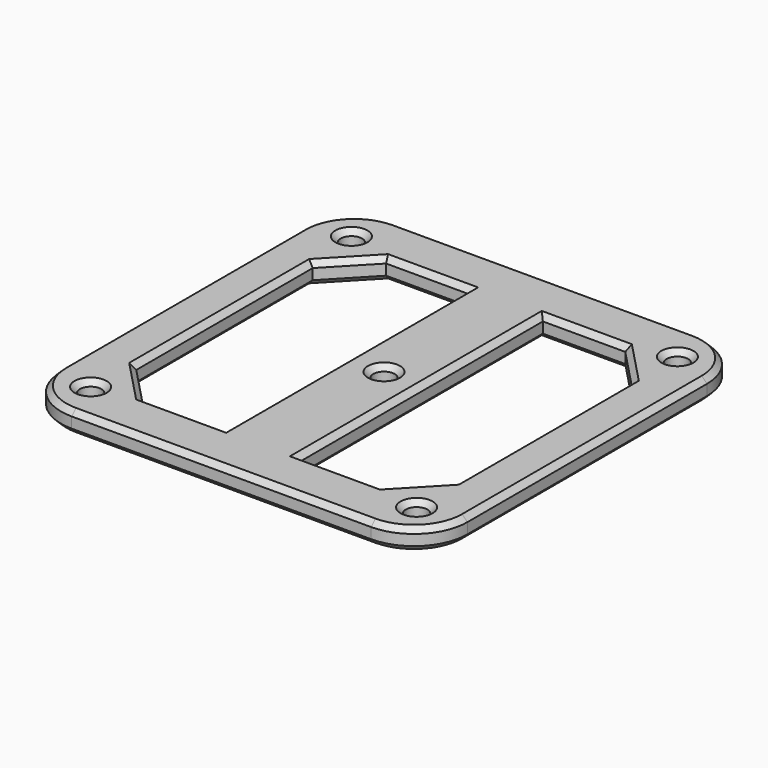
from build123d import *

# Parameters (mm, degrees)
SKETCH001_W  = 76
SKETCH001_H  = 76
SKETCH001_R  = 2
PAD_DEPTH    = 4
POCKET_DEPTH = 5
FILLET_R     = 10
CHAMFER_SIZE = 1


with BuildPart() as part:
    # Sketch001 → Pad (new body)
    with BuildSketch(Plane.XY):
        Rectangle(SKETCH001_W, SKETCH001_H)
        with Locations((-30.479838, 30.479838)):
            Circle(SKETCH001_R, mode=Mode.SUBTRACT)
        with Locations((30.479838, 30.479838)):
            Circle(SKETCH001_R, mode=Mode.SUBTRACT)
        with Locations((30.479838, -30.479838)):
            Circle(SKETCH001_R, mode=Mode.SUBTRACT)
        with Locations((-30.479838, -30.479838)):
            Circle(SKETCH001_R, mode=Mode.SUBTRACT)
        Circle(SKETCH001_R, mode=Mode.SUBTRACT)
    extrude(amount=PAD_DEPTH)

    # Sketch (on Face11 of Pad) → Pocket (cut)
    with BuildSketch(Plane.XY.offset(4)):
        Polygon((-29.826775, 20.627172), (-29.826775, -20.627172), (-22.363682, -28.4412), (-6.952969, -28.4412), (-6.952969, 28.4412), (-22.363682, 28.4412), align=None)
        Polygon((29.826775, 20.627172), (29.826775, -20.627172), (22.363682, -28.4412), (6.952969, -28.4412), (6.952969, 28.4412), (22.363682, 28.4412), align=None)
    extrude(amount=-POCKET_DEPTH, mode=Mode.SUBTRACT)

    # Fillet
    fillet_edges = [part.edges().sort_by_distance(p)[0] for p in [
        (38, -38, 2),
        (-38, -38, 2),
        (-38, 38, 2),
        (38, 38, 2),
    ]]
    fillet(fillet_edges, radius=FILLET_R)

    # Chamfer
    chamfer_edges = [part.edges().sort_by_distance(p)[0] for p in [
        (38, 0, 4),
        (35.071068, -35.071068, 4),
        (35.071068, 35.071068, 4),
        (0, -38, 4),
        (0, 38, 4),
        (-35.071068, -35.071068, 4),
        (-35.071068, 35.071068, 4),
        (-38, 0, 4),
        (-32.479838, -30.479838, 4),
        (28.479838, -30.479838, 4),
        (-29.826775, 0, 4),
        (-26.095228, -24.534186, 4),
        (-14.658325, -28.4412, 4),
        (-6.952969, 0, 4),
        (-14.658325, 28.4412, 4),
        (-26.095228, 24.534186, 4),
        (-32.479838, 30.479838, 4),
        (-2, 0, 4),
        (26.095228, 24.534186, 4),
        (14.658325, 28.4412, 4),
        (6.952969, 0, 4),
        (14.658325, -28.4412, 4),
        (26.095228, -24.534186, 4),
        (29.826775, 0, 4),
        (28.479838, 30.479838, 4),
        (38, 0, 0),
        (35.071068, -35.071068, 0),
        (35.071068, 35.071068, 0),
        (0, -38, 0),
        (0, 38, 0),
        (-35.071068, -35.071068, 0),
        (-35.071068, 35.071068, 0),
        (-38, 0, 0),
        (-32.479838, -30.479838, 0),
        (28.479838, -30.479838, 0),
        (-29.826775, 0, 0),
        (-26.095228, -24.534186, 0),
        (-14.658325, -28.4412, 0),
        (-6.952969, 0, 0),
        (-14.658325, 28.4412, 0),
        (-26.095228, 24.534186, 0),
        (-32.479838, 30.479838, 0),
        (-2, 0, 0),
        (26.095228, 24.534186, 0),
        (14.658325, 28.4412, 0),
        (6.952969, 0, 0),
        (14.658325, -28.4412, 0),
        (26.095228, -24.534186, 0),
        (29.826775, 0, 0),
        (28.479838, 30.479838, 0),
    ]]
    chamfer(chamfer_edges, length=CHAMFER_SIZE)


solid = part.part
